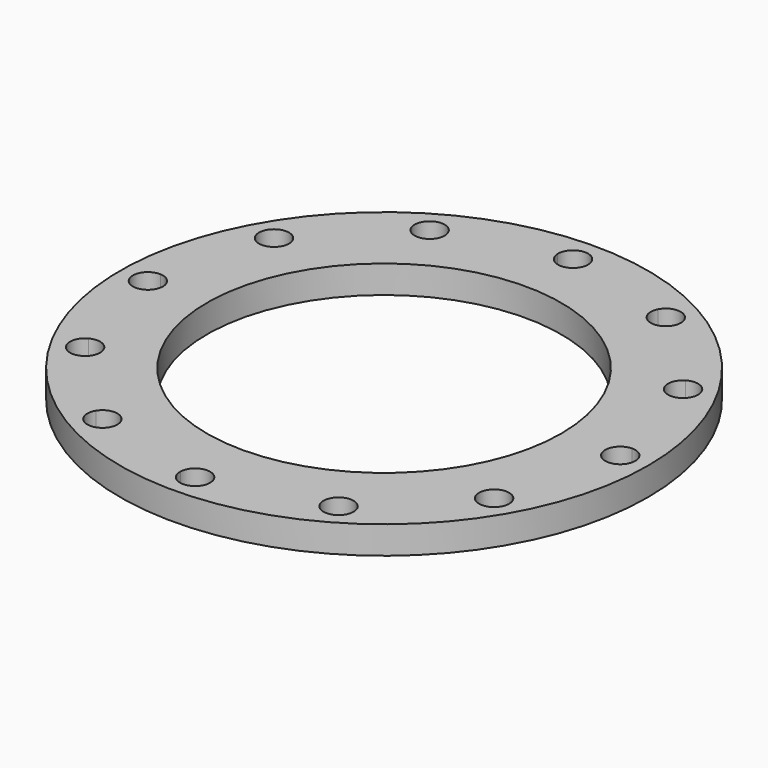
from build123d import *

# Parameters (mm, degrees)
F0_R     = 241.3
F1_DEPTH = 25.4


with BuildPart() as f1:
    # F0 (on Top) → F1 (new body)
    with BuildSketch(Plane.XY):
        with BuildLine():
            ThreePointArc((-80.9625, -140.231164), (80.9625, -140.231164), (161.925, 0))
            ThreePointArc((161.925, 0), (-80.9625, 140.231164), (-80.9625, -140.231164))
        make_face()
        with BuildLine():
            ThreePointArc((-119.604089, -179.74335), (-111.288937, -173.672089), (-101.092288, -175.096978))
            ThreePointArc((-101.092288, -175.096978), (-96.072094, -180.117172), (-94.234575, -186.974885))
            ThreePointArc((-94.234575, -186.974885), (-94.647204, -190.313822), (-95.860263, -193.451854))
            ThreePointArc((-95.860263, -193.451854), (-55.879032, -208.543386), (-13.708504, -215.464352))
            ThreePointArc((-13.708504, -215.464352), (0, -202.184575), (13.708504, -215.464352))
            ThreePointArc((13.708504, -215.464352), (55.879032, -208.543386), (95.860263, -193.451854))
            ThreePointArc((95.860263, -193.451854), (101.092288, -175.096978), (119.604089, -179.74335))
            ThreePointArc((119.604089, -179.74335), (152.664354, -152.664354), (179.74335, -119.604089))
            ThreePointArc((179.74335, -119.604089), (175.096978, -101.092288), (193.451854, -95.860263))
            ThreePointArc((193.451854, -95.860263), (208.543386, -55.879032), (215.464352, -13.708504))
            ThreePointArc((215.464352, -13.708504), (202.184575, 0), (215.464352, 13.708504))
            ThreePointArc((215.464352, 13.708504), (208.543386, 55.879032), (193.451854, 95.860263))
            ThreePointArc((193.451854, 95.860263), (175.096978, 101.092288), (179.74335, 119.604089))
            ThreePointArc((179.74335, 119.604089), (152.664354, 152.664354), (119.604089, 179.74335))
            ThreePointArc((119.604089, 179.74335), (101.092288, 175.096978), (95.860263, 193.451854))
            ThreePointArc((95.860263, 193.451854), (55.879032, 208.543386), (13.708504, 215.464352))
            ThreePointArc((13.708504, 215.464352), (0, 202.184575), (-13.708504, 215.464352))
            ThreePointArc((-13.708504, 215.464352), (-55.879032, 208.543386), (-95.860263, 193.451854))
            ThreePointArc((-95.860263, 193.451854), (-94.647204, 190.313822), (-94.234575, 186.974885))
            ThreePointArc((-94.234575, 186.974885), (-104.190206, 173.784857), (-119.604089, 179.74335))
            ThreePointArc((-119.604089, 179.74335), (-152.664354, 152.664354), (-179.74335, 119.604089))
            ThreePointArc((-179.74335, 119.604089), (-174.989551, 114.618182), (-173.25946, 107.95))
            ThreePointArc((-173.25946, 107.95), (-179.929372, 96.182518), (-193.451854, 95.860263))
            ThreePointArc((-193.451854, 95.860263), (-208.543386, 55.879032), (-215.464352, 13.708504))
            ThreePointArc((-215.464352, 13.708504), (-206.048909, 9.543002), (-202.184575, 0))
            ThreePointArc((-202.184575, 0), (-206.048909, -9.543002), (-215.464352, -13.708504))
            ThreePointArc((-215.464352, -13.708504), (-208.543386, -55.879032), (-193.451854, -95.860263))
            ThreePointArc((-193.451854, -95.860263), (-179.929372, -96.182518), (-173.25946, -107.95))
            ThreePointArc((-173.25946, -107.95), (-174.989551, -114.618182), (-179.74335, -119.604089))
            ThreePointArc((-179.74335, -119.604089), (-152.664354, -152.664354), (-119.604089, -179.74335))
        make_face()
        with BuildLine():
            ThreePointArc((-80.9625, -140.231164), (-80.9625, 140.231164), (161.925, 0))
            ThreePointArc((161.925, 0), (80.9625, -140.231164), (-80.9625, -140.231164))
        make_face(mode=Mode.SUBTRACT)
        Circle(F0_R)
        with BuildLine():
            ThreePointArc((-95.860263, -193.451854), (-114.807712, -198.852791), (-119.604089, -179.74335))
            ThreePointArc((-119.604089, -179.74335), (-152.664354, -152.664354), (-179.74335, -119.604089))
            ThreePointArc((-179.74335, -119.604089), (-198.852791, -114.807712), (-193.451854, -95.860263))
            ThreePointArc((-193.451854, -95.860263), (-208.543386, -55.879032), (-215.464352, -13.708504))
            ThreePointArc((-215.464352, -13.708504), (-229.615425, 0), (-215.464352, 13.708504))
            ThreePointArc((-215.464352, 13.708504), (-208.543386, 55.879032), (-193.451854, 95.860263))
            ThreePointArc((-193.451854, 95.860263), (-198.852791, 114.807712), (-179.74335, 119.604089))
            ThreePointArc((-179.74335, 119.604089), (-152.664354, 152.664354), (-119.604089, 179.74335))
            ThreePointArc((-119.604089, 179.74335), (-114.807712, 198.852791), (-95.860263, 193.451854))
            ThreePointArc((-95.860263, 193.451854), (-55.879032, 208.543386), (-13.708504, 215.464352))
            ThreePointArc((-13.708504, 215.464352), (-0.217852, 229.613695), (13.715425, 215.9))
            ThreePointArc((13.715425, 215.9), (13.713695, 215.682148), (13.708504, 215.464352))
            ThreePointArc((13.708504, 215.464352), (55.879032, 208.543386), (95.860263, 193.451854))
            ThreePointArc((95.860263, 193.451854), (111.288937, 200.277681), (121.665425, 186.974885))
            ThreePointArc((121.665425, 186.974885), (121.140028, 183.215091), (119.604089, 179.74335))
            ThreePointArc((119.604089, 179.74335), (152.664354, 152.664354), (179.74335, 119.604089))
            ThreePointArc((179.74335, 119.604089), (193.643067, 119.935334), (200.69031, 107.95))
            ThreePointArc((200.69031, 107.95), (198.742367, 100.904488), (193.451854, 95.860263))
            ThreePointArc((193.451854, 95.860263), (208.543386, 55.879032), (215.464352, 13.708504))
            ThreePointArc((215.464352, 13.708504), (225.443002, 9.851091), (229.615425, 0))
            ThreePointArc((229.615425, 0), (225.443002, -9.851091), (215.464352, -13.708504))
            ThreePointArc((215.464352, -13.708504), (208.543386, -55.879032), (193.451854, -95.860263))
            ThreePointArc((193.451854, -95.860263), (198.742367, -100.904488), (200.69031, -107.95))
            ThreePointArc((200.69031, -107.95), (193.643067, -119.935334), (179.74335, -119.604089))
            ThreePointArc((179.74335, -119.604089), (152.664354, -152.664354), (119.604089, -179.74335))
            ThreePointArc((119.604089, -179.74335), (121.140028, -183.215091), (121.665425, -186.974885))
            ThreePointArc((121.665425, -186.974885), (111.288937, -200.277681), (95.860263, -193.451854))
            ThreePointArc((95.860263, -193.451854), (55.879032, -208.543386), (13.708504, -215.464352))
            ThreePointArc((13.708504, -215.464352), (13.713695, -215.682148), (13.715425, -215.9))
            ThreePointArc((13.715425, -215.9), (-0.217852, -229.613695), (-13.708504, -215.464352))
            ThreePointArc((-13.708504, -215.464352), (-55.879032, -208.543386), (-95.860263, -193.451854))
        make_face(mode=Mode.SUBTRACT)
        with BuildLine():
            ThreePointArc((-119.604089, -179.74335), (-111.288937, -173.672089), (-101.092288, -175.096978))
            ThreePointArc((-101.092288, -175.096978), (-96.072094, -180.117172), (-94.234575, -186.974885))
            ThreePointArc((-94.234575, -186.974885), (-94.647204, -190.313822), (-95.860263, -193.451854))
            ThreePointArc((-95.860263, -193.451854), (-55.879032, -208.543386), (-13.708504, -215.464352))
            ThreePointArc((-13.708504, -215.464352), (0, -202.184575), (13.708504, -215.464352))
            ThreePointArc((13.708504, -215.464352), (55.879032, -208.543386), (95.860263, -193.451854))
            ThreePointArc((95.860263, -193.451854), (101.092288, -175.096978), (119.604089, -179.74335))
            ThreePointArc((119.604089, -179.74335), (152.664354, -152.664354), (179.74335, -119.604089))
            ThreePointArc((179.74335, -119.604089), (175.096978, -101.092288), (193.451854, -95.860263))
            ThreePointArc((193.451854, -95.860263), (208.543386, -55.879032), (215.464352, -13.708504))
            ThreePointArc((215.464352, -13.708504), (202.184575, 0), (215.464352, 13.708504))
            ThreePointArc((215.464352, 13.708504), (208.543386, 55.879032), (193.451854, 95.860263))
            ThreePointArc((193.451854, 95.860263), (175.096978, 101.092288), (179.74335, 119.604089))
            ThreePointArc((179.74335, 119.604089), (152.664354, 152.664354), (119.604089, 179.74335))
            ThreePointArc((119.604089, 179.74335), (101.092288, 175.096978), (95.860263, 193.451854))
            ThreePointArc((95.860263, 193.451854), (55.879032, 208.543386), (13.708504, 215.464352))
            ThreePointArc((13.708504, 215.464352), (0, 202.184575), (-13.708504, 215.464352))
            ThreePointArc((-13.708504, 215.464352), (-55.879032, 208.543386), (-95.860263, 193.451854))
            ThreePointArc((-95.860263, 193.451854), (-94.647204, 190.313822), (-94.234575, 186.974885))
            ThreePointArc((-94.234575, 186.974885), (-104.190206, 173.784857), (-119.604089, 179.74335))
            ThreePointArc((-119.604089, 179.74335), (-152.664354, 152.664354), (-179.74335, 119.604089))
            ThreePointArc((-179.74335, 119.604089), (-174.989551, 114.618182), (-173.25946, 107.95))
            ThreePointArc((-173.25946, 107.95), (-179.929372, 96.182518), (-193.451854, 95.860263))
            ThreePointArc((-193.451854, 95.860263), (-208.543386, 55.879032), (-215.464352, 13.708504))
            ThreePointArc((-215.464352, 13.708504), (-206.048909, 9.543002), (-202.184575, 0))
            ThreePointArc((-202.184575, 0), (-206.048909, -9.543002), (-215.464352, -13.708504))
            ThreePointArc((-215.464352, -13.708504), (-208.543386, -55.879032), (-193.451854, -95.860263))
            ThreePointArc((-193.451854, -95.860263), (-179.929372, -96.182518), (-173.25946, -107.95))
            ThreePointArc((-173.25946, -107.95), (-174.989551, -114.618182), (-179.74335, -119.604089))
            ThreePointArc((-179.74335, -119.604089), (-152.664354, -152.664354), (-119.604089, -179.74335))
        make_face()
        with BuildLine():
            ThreePointArc((-80.9625, -140.231164), (-80.9625, 140.231164), (161.925, 0))
            ThreePointArc((161.925, 0), (80.9625, -140.231164), (-80.9625, -140.231164))
        make_face(mode=Mode.SUBTRACT)
    extrude(amount=F1_DEPTH)


solid = f1.part
